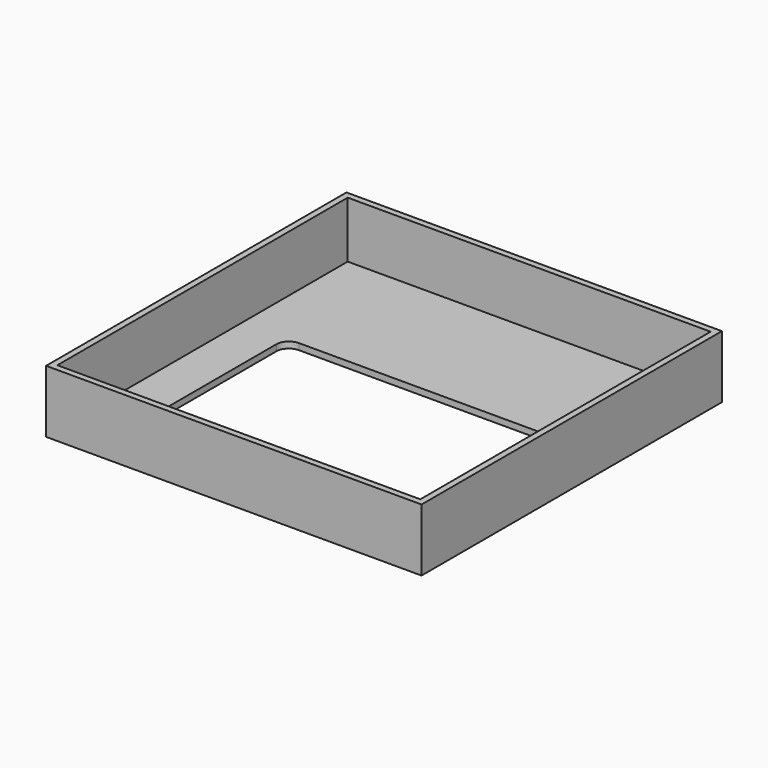
from build123d import *

# Parameters (mm, degrees)
F0_W     = 150
F0_H     = 150
F1_DEPTH = 25
F2_T     = -2.5
F4_DEPTH = 25


with BuildPart() as f1:
    # F0 (on Top) → F1 (new body)
    with BuildSketch(Plane.XY):
        Rectangle(F0_W, F0_H)
    extrude(amount=F1_DEPTH)

    # F2
    f2_openings = [f1.faces().sort_by_distance(p)[0] for p in [
        (0, 0, 25),
    ]]
    offset(amount=F2_T, openings=f2_openings)

    # F3 (on face) → F4 (cut)
    with BuildSketch(Plane.XY.offset(2.5)):
        with BuildLine():
            Line((50, 20), (-50, 20))
            ThreePointArc((-50, 20), (-53.535534, 18.535534), (-55, 15))
            Line((-55, 15), (-55, -55))
            ThreePointArc((-55, -55), (-53.535534, -58.535534), (-50, -60))
            Line((-50, -60), (50, -60))
            ThreePointArc((50, -60), (53.535534, -58.535534), (55, -55))
            Line((55, -55), (55, 15))
            ThreePointArc((55, 15), (53.535534, 18.535534), (50, 20))
        make_face()
    extrude(amount=-F4_DEPTH, mode=Mode.SUBTRACT)


solid = f1.part
